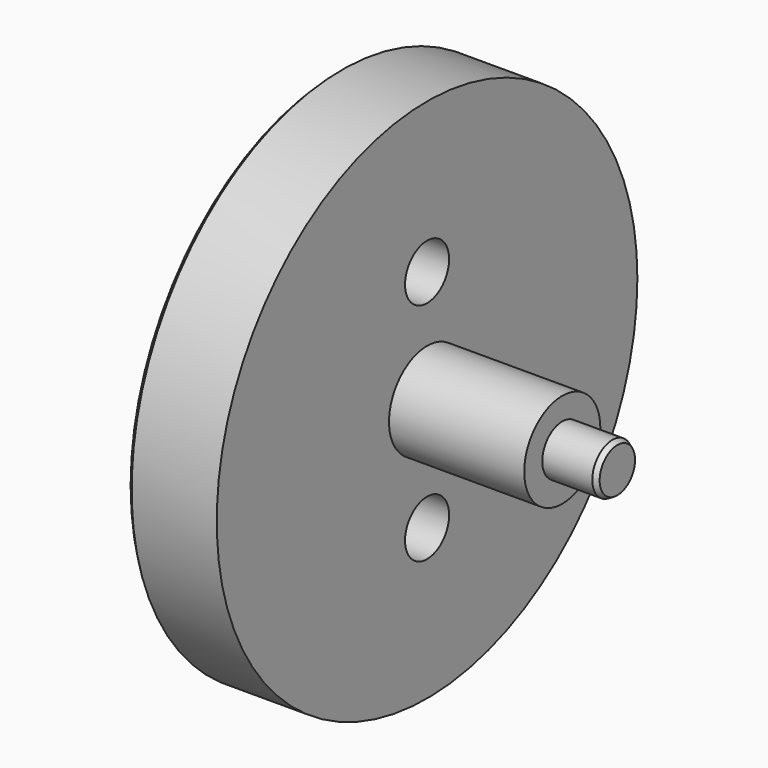
from build123d import *

# Parameters (mm, degrees)
F0_R     = 52.5
F1_DEPTH = 18
F2_R     = 45.125
F3_DEPTH = 9
F4_SIZE  = 1
F5_R     = 9.5
F6_DEPTH = 27
F7_R     = 5
F8_DEPTH = 11
F9_SIZE2 = 0.5773502692
F9_SIZE  = 1
F11_D    = 11


with BuildPart() as f1:
    # F0 (on Right) → F1 (new body)
    with BuildSketch(Plane.YZ):
        Circle(F0_R)
    extrude(amount=-F1_DEPTH)

    # F2 (on face) → F3 (cut)
    with BuildSketch(Plane(origin=(-18, 0, 0), x_dir=(0, -1, 0), z_dir=(-1, 0, 0))):
        Circle(F2_R)
    extrude(amount=-F3_DEPTH, mode=Mode.SUBTRACT)

    # F4
    f4_edges = [f1.edges().sort_by_distance(p)[0] for p in [
        (-18, -52.5, 0),
        (-18, 45.125, 0),
    ]]
    chamfer(f4_edges, length=F4_SIZE)

    # F5 (on face) → F6 (join)
    with BuildSketch(Plane.YZ):
        Circle(F5_R)
    extrude(amount=F6_DEPTH)

    # F7 (on face) → F8 (join)
    with BuildSketch(Plane.YZ.offset(27)):
        Circle(F7_R)
    extrude(amount=F8_DEPTH)

    # F9
    f9_edges = [f1.edges().sort_by_distance(p)[0] for p in [
        (38, -5, 0),
    ]]
    f9_side = f1.faces().sort_by_distance((32.5, -5, 0))[0]
    chamfer(f9_edges, length=F9_SIZE, length2=F9_SIZE2, reference=f9_side)

    # F11 (through all)
    with Locations(Plane.YZ):
        with Locations((0, -22.5), (0, 22.5)):
            Hole(F11_D / 2)


solid = f1.part
